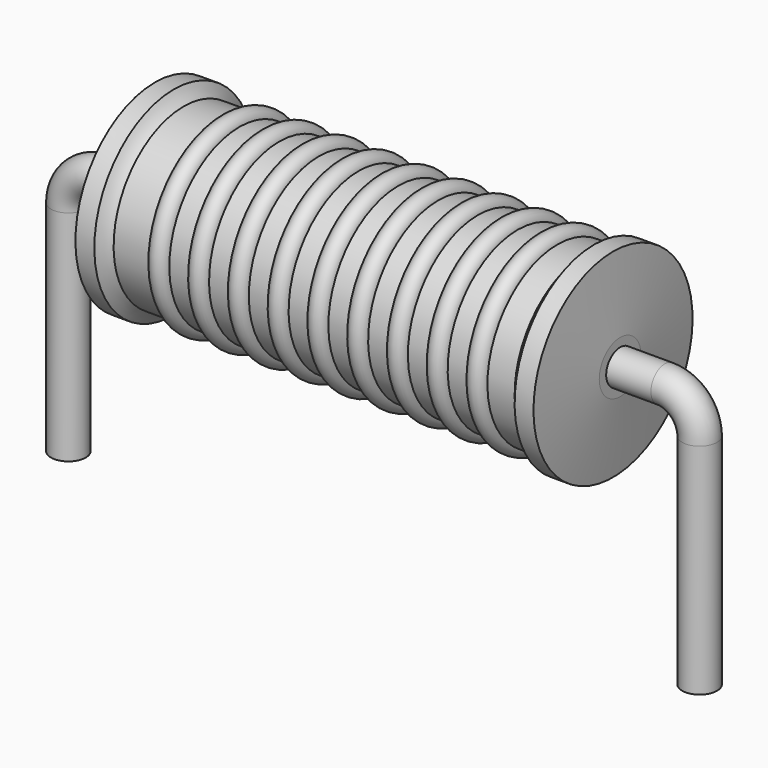
from build123d import *

# Parameters (mm, degrees)
SKETCH_R = 0.35


with BuildPart() as revolution:
    # Sketch002 → Revolution (revolve)
    with BuildSketch(Plane.XZ):
        with BuildLine():
            Line((1.7425, 4.1), (2.1225, 4.1))
            ThreePointArc((2.1225, 4.1), (2.209345, 3.971117), (2.3205, 3.8625))
            Line((2.3205, 3.8625), (10.3875, 3.8625))
            ThreePointArc((10.3875, 3.8625), (10.494738, 3.971459), (10.5775, 4.1))
            Line((10.5775, 4.1), (10.9575, 4.1))
            ThreePointArc((11.1, 2.625), (11.029979, 3.362619), (10.9575, 4.1))
            Line((11.1, 2.1), (11.1, 2.625))
            Line((1.6, 2.1), (11.1, 2.1))
            Line((1.6, 2.1), (1.6, 2.625))
            ThreePointArc((1.7425, 4.1), (1.670021, 3.362619), (1.6, 2.625))
        make_face()
    revolve(axis=Axis((1.6, 0, 2.1), (1, 0, 0)))


with BuildPart() as sweep_body:
    # Sweep: sweep along a path in Sketch001
    with BuildLine(Plane.XZ) as sweep_path:
        Line((0, -3), (0, 1.4))
        ThreePointArc((0, 1.4), (0.205029, 1.894978), (0.70001, 2.1))
        Line((0.70001, 2.1), (12, 2.1))
        ThreePointArc((12, 2.1), (12.494975, 1.894975), (12.7, 1.4))
        Line((12.7, 1.4), (12.7, -3))
    # Sketch → Sweep (sweep)
    with BuildSketch(Plane.XY.offset(-2)):
        Circle(SKETCH_R)
    sweep(path=sweep_path.line)


with BuildPart() as revolution001:
    # Sketch003 → Revolution001 (revolve)
    with BuildSketch(Plane.XZ):
        with BuildLine():
            ThreePointArc((3.445, 3.8245), (3.245, 4.0245), (3.045, 3.8245))
            Line((2.645, 3.8245), (3.045, 3.8245))
            Line((2.645, 3.8245), (2.645, 3.4245))
            Line((2.645, 3.4245), (10.245, 3.4245))
            Line((10.245, 3.4245), (10.245, 3.8245))
            Line((9.845, 3.8245), (10.245, 3.8245))
            ThreePointArc((9.845, 3.8245), (9.645, 4.0245), (9.445, 3.8245))
            Line((9.045, 3.8245), (9.445, 3.8245))
            ThreePointArc((9.045, 3.8245), (8.845, 4.0245), (8.645, 3.8245))
            Line((8.245, 3.8245), (8.645, 3.8245))
            ThreePointArc((8.245, 3.8245), (8.045, 4.0245), (7.845, 3.8245))
            Line((7.445, 3.8245), (7.845, 3.8245))
            ThreePointArc((7.445, 3.8245), (7.245, 4.0245), (7.045, 3.8245))
            Line((6.645, 3.8245), (7.045, 3.8245))
            ThreePointArc((6.645, 3.8245), (6.445, 4.0245), (6.245, 3.8245))
            Line((5.845, 3.8245), (6.245, 3.8245))
            ThreePointArc((5.845, 3.8245), (5.645, 4.0245), (5.445, 3.8245))
            Line((5.045, 3.8245), (5.445, 3.8245))
            ThreePointArc((5.045, 3.8245), (4.845, 4.0245), (4.645, 3.8245))
            Line((4.245, 3.8245), (4.645, 3.8245))
            ThreePointArc((4.245, 3.8245), (4.045, 4.0245), (3.845, 3.8245))
            Line((3.445, 3.8245), (3.845, 3.8245))
        make_face()
    revolve(axis=Axis((1.8375, 0, 2.1), (1, 0, 0)))


solid = Compound([revolution.part, sweep_body.part, revolution001.part])
